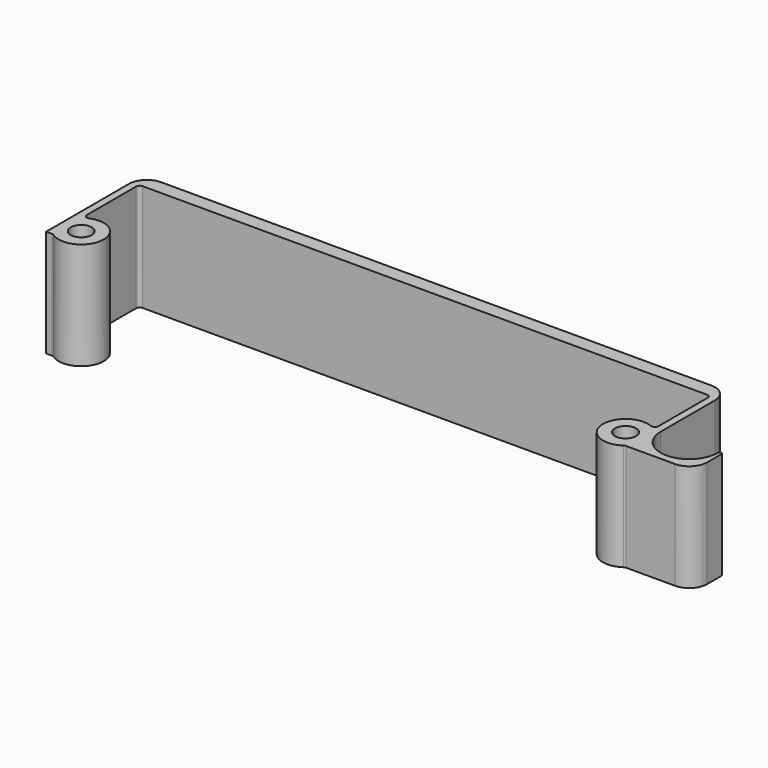
from build123d import *

# Parameters (mm, degrees)
F0_R     = 1.477487
F0_R_2   = 1.471046
F1_DEPTH = 15


with BuildPart() as f1:
    # F0 (on Top) → F1 (new body)
    with BuildSketch(Plane.XY):
        with BuildLine():
            Line((0, 2), (0, 0))
            Line((0, 0), (39.5, 0))
            ThreePointArc((39.5, 0), (39.853553, -0.146447), (40, -0.5))
            Line((40, -0.5), (40, -9.135922))
            ThreePointArc((40, -9.135922), (39.776556, -9.552475), (39.305934, -9.596724))
            ThreePointArc((39.305934, -9.596724), (34.949923, -12.826281), (39.87787, -15.089068))
            ThreePointArc((39.87787, -15.089068), (40.013491, -15.022786), (40.162713, -15))
            Line((40.162713, -15), (45, -15))
            Line((45, -15), (47, -15))
            ThreePointArc((47, -15), (48.767767, -14.267767), (49.5, -12.5))
            Line((49.5, -12.5), (49.5, -10))
            ThreePointArc((49.5, -10), (49.25, -9.75), (49, -10))
            ThreePointArc((49, -10), (45, -14), (41, -10))
            Line((41, -10), (41, -2.565671))
            Line((41, -2.565671), (41, -0.5))
            ThreePointArc((41, -0.5), (40.267767, 1.267767), (38.5, 2))
            Line((38.5, 2), (0, 2))
        make_face()
        with Locations((38.083223, -12.5)):
            Circle(F0_R, mode=Mode.SUBTRACT)
        with BuildLine():
            Line((-39.5, 0), (0, 0))
            Line((0, 0), (0, 2))
            Line((0, 2), (-38.5, 2))
            ThreePointArc((-38.5, 2), (-40.267767, 1.267767), (-41, -0.5))
            Line((-41, -0.5), (-41, -15))
            Line((-41, -15), (-40.162713, -15))
            ThreePointArc((-40.162713, -15), (-40.013491, -15.022786), (-39.87787, -15.089068))
            ThreePointArc((-39.87787, -15.089068), (-34.949923, -12.826281), (-39.305934, -9.596724))
            ThreePointArc((-39.305934, -9.596724), (-39.776556, -9.552475), (-40, -9.135922))
            Line((-40, -9.135922), (-40, -0.5))
            ThreePointArc((-40, -0.5), (-39.853553, -0.146447), (-39.5, 0))
        make_face()
        with Locations((-38.083223, -12.5)):
            Circle(F0_R_2, mode=Mode.SUBTRACT)
    extrude(amount=F1_DEPTH)


solid = f1.part
